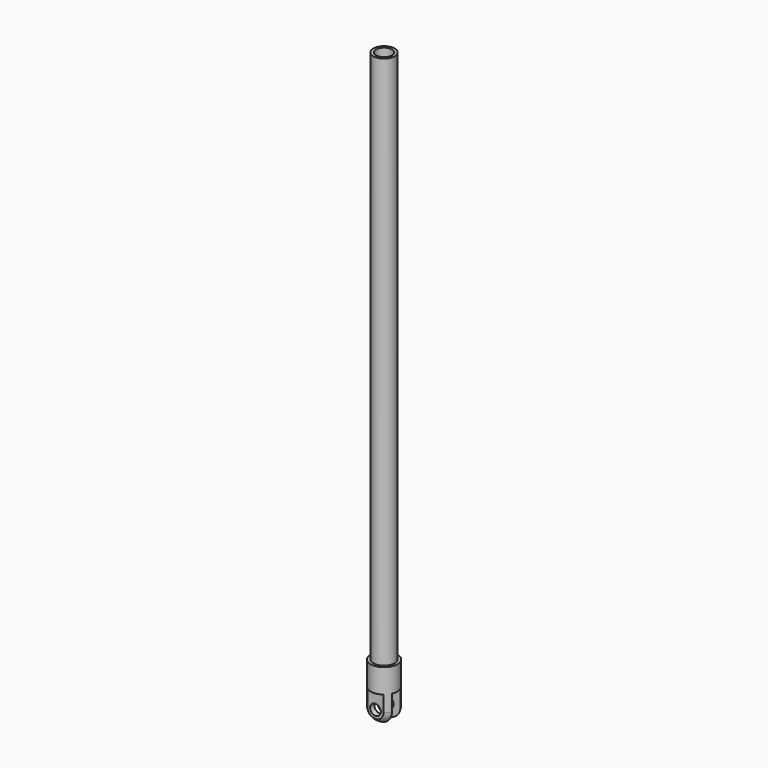
from build123d import *

# Parameters (mm, degrees)
F0_R      = 2
F1_DEPTH  = 100
F2_R      = 2.5
F3_DEPTH  = 10
F4_R      = 2.5
F5_W      = 2
F5_H      = 6.56581
F5_W_2    = 1.541687
F5_H_2    = 10
F5_W_3    = 1.263462
F6_DEPTH  = 12.5
F7_R      = 1
F8_DEPTH  = 12.5
F9_R      = 1.5
F10_DEPTH = 100


with BuildPart() as f1:
    # F0 (on Top) → F1 (new body)
    with BuildSketch(Plane.XY):
        Circle(F0_R)
    extrude(amount=F1_DEPTH)

    # F2 (on face) → F3 (join)
    with BuildSketch(Plane(origin=(0, 0, 0), x_dir=(1, 0, 0), z_dir=(0, 0, -1))):
        Circle(F2_R)
    extrude(amount=F3_DEPTH)

    # F4
    f4_edges = [f1.edges().sort_by_distance(p)[0] for p in [
        (-2.5, 0, -10),
    ]]
    fillet(f4_edges, radius=F4_R)

    # F5 (on Right) → F6 (cut, symmetric)
    with BuildSketch(Plane.YZ):
        with Locations((0, -7.782905)):
            Rectangle(F5_W, F5_H)
        with Locations((2.770843, -9.5)):
            Rectangle(F5_W_2, F5_H_2)
        with Locations((-2.631731, -9.5)):
            Rectangle(F5_W_3, F5_H_2)
    extrude(amount=F6_DEPTH, both=True, mode=Mode.SUBTRACT)

    # F7 (on face) → F8 (cut, symmetric)
    with BuildSketch(Plane.XZ.offset(2)):
        with Locations((0, -7.5)):
            Circle(F7_R)
    extrude(amount=F8_DEPTH, both=True, mode=Mode.SUBTRACT)

    # F9 (on face) → F10 (cut)
    with BuildSketch(Plane.XY.offset(100)):
        Circle(F9_R)
    extrude(amount=-F10_DEPTH, mode=Mode.SUBTRACT)


solid = f1.part
